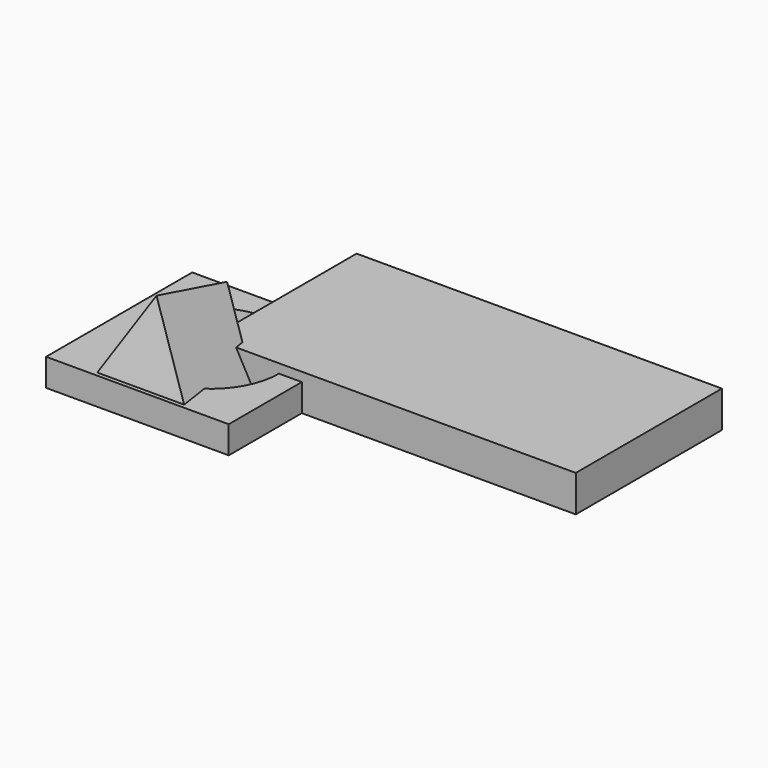
from build123d import *

# Parameters (mm, degrees)
SKETCH_W                   = 40
SKETCH_H                   = 20
EXTRUDE_DEPTH              = 4
SKETCH001_W                = 20
SKETCH001_H                = 20
SKETCH001_R                = 7.5
EXTRUDE001_DEPTH           = 3
EXTRUDE002_DEPTH           = 10
EXTRUDE002_PLACEMENT_ANGLE = 75


with BuildPart() as obj1:
    # Sketch → Extrude (new body)
    with BuildSketch(Plane.XY):
        with Locations((20, 10)):
            Rectangle(SKETCH_W, SKETCH_H)
    extrude(amount=EXTRUDE_DEPTH)


with BuildPart() as obj2:
    # Sketch001 → Extrude001 (new body)
    with BuildSketch(Plane.XY):
        Rectangle(SKETCH001_W, SKETCH001_H)
        Circle(SKETCH001_R, mode=Mode.SUBTRACT)
    extrude(amount=EXTRUDE001_DEPTH)


with BuildPart() as prisma_triangular:
    # Sketch002 → Extrude002 (new body)
    with BuildSketch(Plane.XY):
        Polygon((-5.001075, -0.003124), (0, 8.792526), (5.001075, -0.003124), align=None)
    extrude(amount=EXTRUDE002_DEPTH)


with BuildPart() as prisma_triangular_1:
    # Extrude002 placement: moved
    add(prisma_triangular.part.rotate(Axis((0, 0, 0), (1, 0, 0)), EXTRUDE002_PLACEMENT_ANGLE))


solid = Compound([obj1.part, obj2.part, prisma_triangular_1.part])
